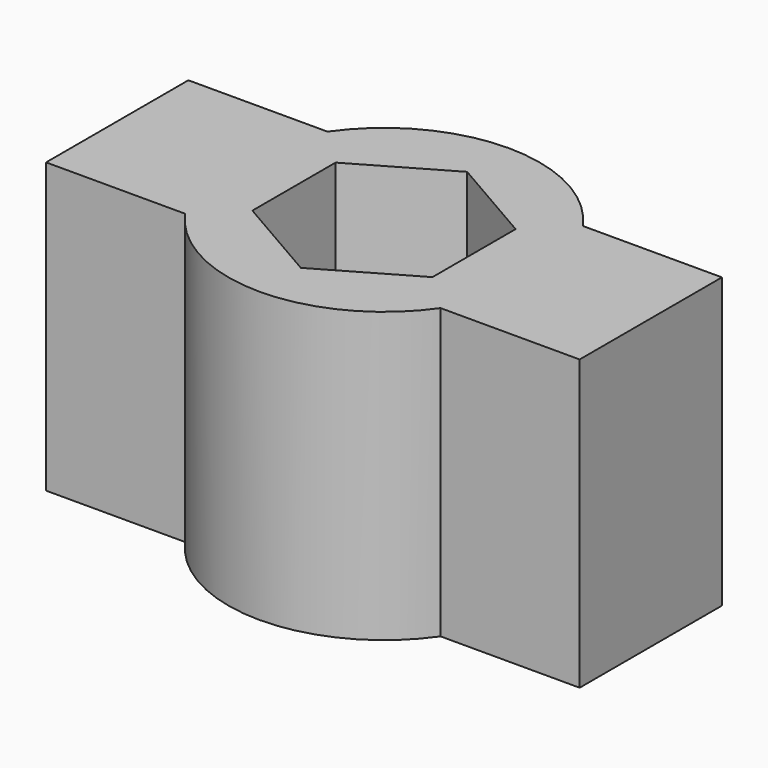
from build123d import *

# Parameters (mm, degrees)
F0_R     = 7
F1_DEPTH = 13
F3_DEPTH = 13


with BuildPart() as f1:
    # F0 (on Top) → F1 (new body)
    with BuildSketch(Plane.XY):
        Circle(F0_R)
        Polygon((0, 4.676537), (4.05, 2.338269), (4.05, -2.338269), (0, -4.676537), (-4.05, -2.338269), (-4.05, 2.338269), align=None, mode=Mode.SUBTRACT)
    extrude(amount=F1_DEPTH)

    # F2 (on face) → F3 (join)
    with BuildSketch(Plane(origin=(0, 0, 0), x_dir=(1, 0, 0), z_dir=(0, 0, -1))):
        with BuildLine():
            ThreePointArc((7, 0), (6.67877, -2.096194), (5.744563, -4))
            Line((5.744563, -4), (12, -4))
            Line((12, -4), (12, 4))
            Line((12, 4), (5.744563, 4))
            ThreePointArc((5.744563, 4), (6.67877, 2.096194), (7, 0))
        make_face()
        with BuildLine():
            Line((-12, -4), (-5.744563, -4))
            ThreePointArc((-5.744563, -4), (-7, 0), (-5.744563, 4))
            Line((-5.744563, 4), (-12, 4))
            Line((-12, 4), (-12, -4))
        make_face()
    extrude(amount=-F3_DEPTH)


solid = f1.part
